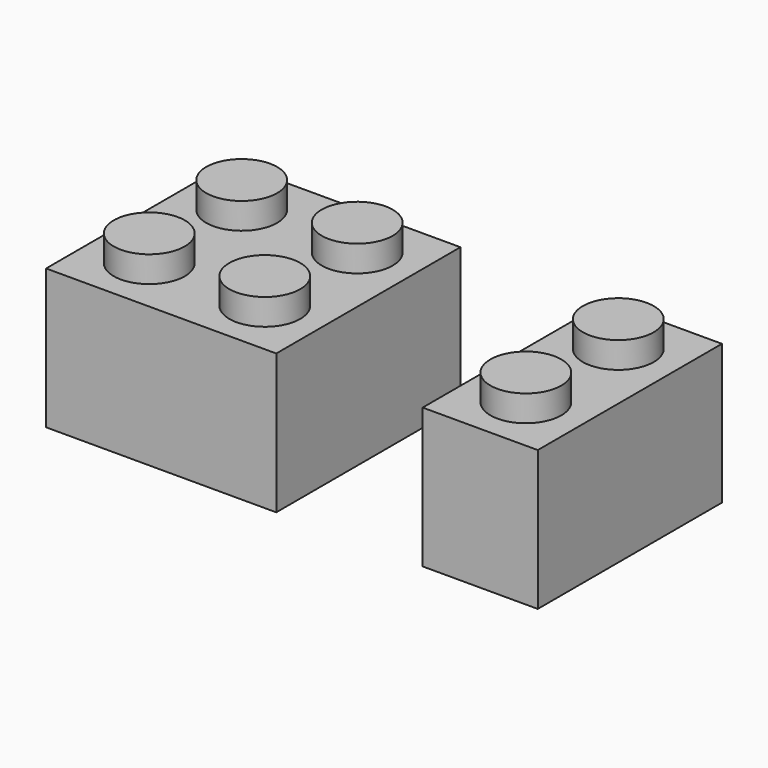
from build123d import *

# Parameters (mm, degrees)
F0_R     = 2.435
F1_DEPTH = 9.6
F2_DEPTH = 11.4
F3_DEPTH = 9.6
F4_DEPTH = 11.4
F5_T     = -1.4
F5_2_T   = -1.4
F6_R     = 3.172
F6_R_2   = 2.44
F7_DEPTH = 8.1


with BuildPart() as f1:
    # F0 (on Top) → F1 (new body)
    with BuildSketch(Plane.XY):
        Polygon((7.9, -7.9), (7.9, 7.9), (0, 7.9), (-7.9, 7.9), (-7.9, 3.965), (-7.9, -7.9), align=None)
        with Locations((-3.965, -3.965)):
            Circle(F0_R, mode=Mode.SUBTRACT)
        with Locations((3.965, -3.965)):
            Circle(F0_R, mode=Mode.SUBTRACT)
        with BuildLine():
            ThreePointArc((-1.53, 3.965), (-3.965, 1.53), (-6.4, 3.965))
            ThreePointArc((-6.4, 3.965), (-3.965, 6.4), (-1.53, 3.965))
        make_face(mode=Mode.SUBTRACT)
        with Locations((3.965, 3.965)):
            Circle(F0_R, mode=Mode.SUBTRACT)
    extrude(amount=F1_DEPTH)

    # F0 (on Top) → F2 (join)
    with BuildSketch(Plane.XY):
        with BuildLine():
            ThreePointArc((-1.53, 3.965), (-3.965, 6.4), (-6.4, 3.965))
            ThreePointArc((-6.4, 3.965), (-3.965, 1.53), (-1.53, 3.965))
        make_face()
        with Locations((3.965, 3.965)):
            Circle(F0_R)
        with Locations((-3.965, -3.965)):
            Circle(F0_R)
        with Locations((3.965, -3.965)):
            Circle(F0_R)
    extrude(amount=F2_DEPTH)

    # F5
    f5_openings = [f1.faces().sort_by_distance(p)[0] for p in [
        (0, 0, 0),
    ]]
    offset(amount=F5_T, openings=f5_openings, kind=Kind.INTERSECTION)

    # F6 (on face) → F7 (join)
    with BuildSketch(Plane(origin=(0, 0, 8.2), x_dir=(1, 0, 0), z_dir=(0, 0, -1))):
        Circle(F6_R)
        Circle(F6_R_2, mode=Mode.SUBTRACT)
    extrude(amount=F7_DEPTH)


with BuildPart() as f3:
    # F0 (on Top) → F3 (new body)
    with BuildSketch(Plane.XY):
        Polygon((17.9496426135, 3.965), (17.9496426135, -7.9), (25.8496426135, -7.9), (25.8496426135, 7.9), (17.9496426135, 7.9), align=None)
        with Locations((21.8846426135, -3.965)):
            Circle(F0_R, mode=Mode.SUBTRACT)
        with BuildLine():
            ThreePointArc((24.3196426135, 3.965), (21.8846426135, 1.53), (19.4496426135, 3.965))
            ThreePointArc((19.4496426135, 3.965), (21.8846426135, 6.4), (24.3196426135, 3.965))
        make_face(mode=Mode.SUBTRACT)
    extrude(amount=F3_DEPTH)

    # F0 (on Top) → F4 (join)
    with BuildSketch(Plane.XY):
        with BuildLine():
            ThreePointArc((24.3196426135, 3.965), (21.8846426135, 6.4), (19.4496426135, 3.965))
            ThreePointArc((19.4496426135, 3.965), (21.8846426135, 1.53), (24.3196426135, 3.965))
        make_face()
        with Locations((21.8846426135, -3.965)):
            Circle(F0_R)
    extrude(amount=F4_DEPTH)

    # F5#2
    f5_2_openings = [f3.faces().sort_by_distance(p)[0] for p in [
        (21.899643, 0, 0),
    ]]
    offset(amount=F5_2_T, openings=f5_2_openings, kind=Kind.INTERSECTION)


solid = Compound([f1.part, f3.part])
